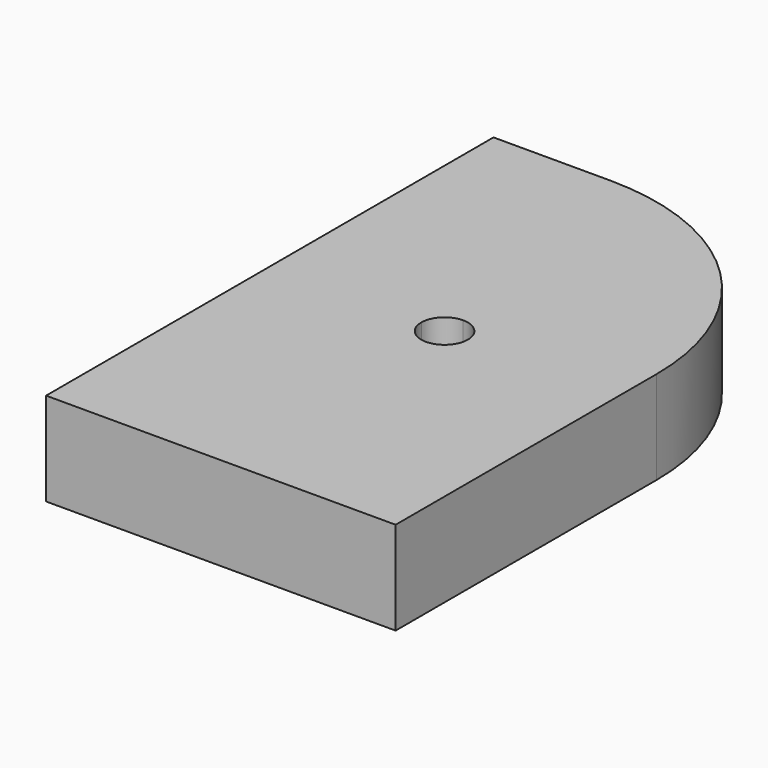
from build123d import *

# Parameters (mm, degrees)
F1_DEPTH = 16
F2_R     = 40


with BuildPart() as f1:
    # F0 (on Top) → F1 (new body)
    with BuildSketch(Plane.XY):
        with BuildLine():
            Line((0, 96), (0, 48))
            Line((0, 48), (26, 48))
            ThreePointArc((26, 48), (27.171573, 50.828427), (30, 52))
            Line((30, 52), (30, 96))
            Line((30, 96), (0, 96))
        make_face()
        with BuildLine():
            Line((34, 48), (60, 48))
            Line((60, 48), (60, 96))
            Line((60, 96), (30, 96))
            Line((30, 96), (30, 52))
            ThreePointArc((30, 52), (32.828427, 50.828427), (34, 48))
        make_face()
        with BuildLine():
            Line((30, 44), (30, 0))
            Line((30, 0), (60, 0))
            Line((60, 0), (60, 48))
            Line((60, 48), (34, 48))
            ThreePointArc((34, 48), (32.828427, 45.171573), (30, 44))
        make_face()
        with BuildLine():
            Line((0, 48), (0, 0))
            Line((0, 0), (30, 0))
            Line((30, 0), (30, 44))
            ThreePointArc((30, 44), (27.171573, 45.171573), (26, 48))
            Line((26, 48), (0, 48))
        make_face()
    extrude(amount=F1_DEPTH)

    # F2
    f2_edges = [f1.edges().sort_by_distance(p)[0] for p in [
        (60, 96, 8),
    ]]
    fillet(f2_edges, radius=F2_R)


solid = f1.part
